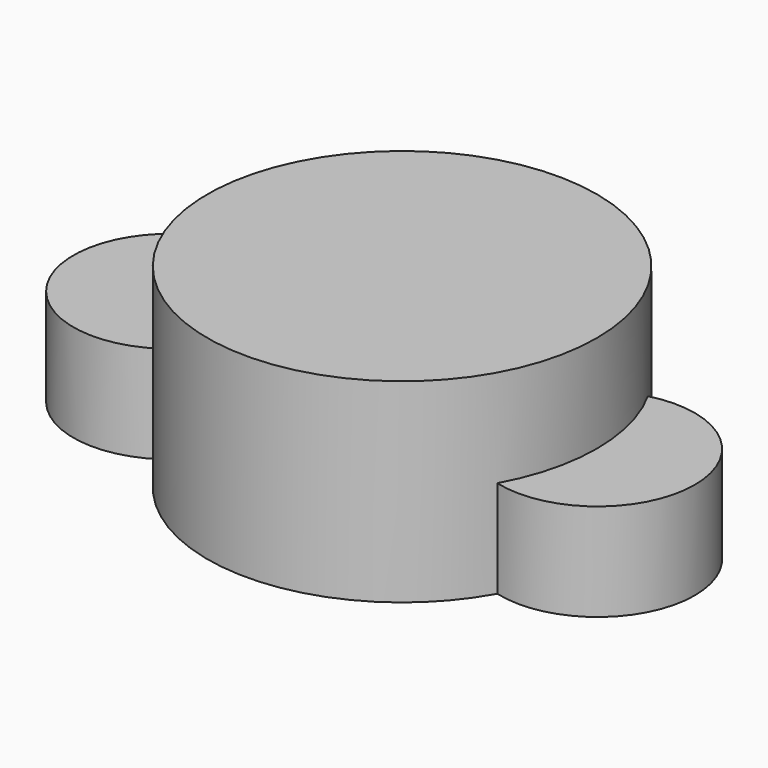
from build123d import *

# Parameters (mm, degrees)
F0_R     = 50
F1_DEPTH = 50
F2_R     = 25
F3_DEPTH = 25


with BuildPart() as f1:
    # F0 (on Top) → F1 (new body)
    with BuildSketch(Plane.XY):
        Circle(F0_R)
    extrude(amount=F1_DEPTH)

    # F2 (on Top) → F3 (join)
    with BuildSketch(Plane.XY):
        with Locations((50.145525, 0)):
            Circle(F2_R)
        with Locations((-59.403446, 0)):
            Circle(F2_R)
    extrude(amount=F3_DEPTH)


solid = f1.part
